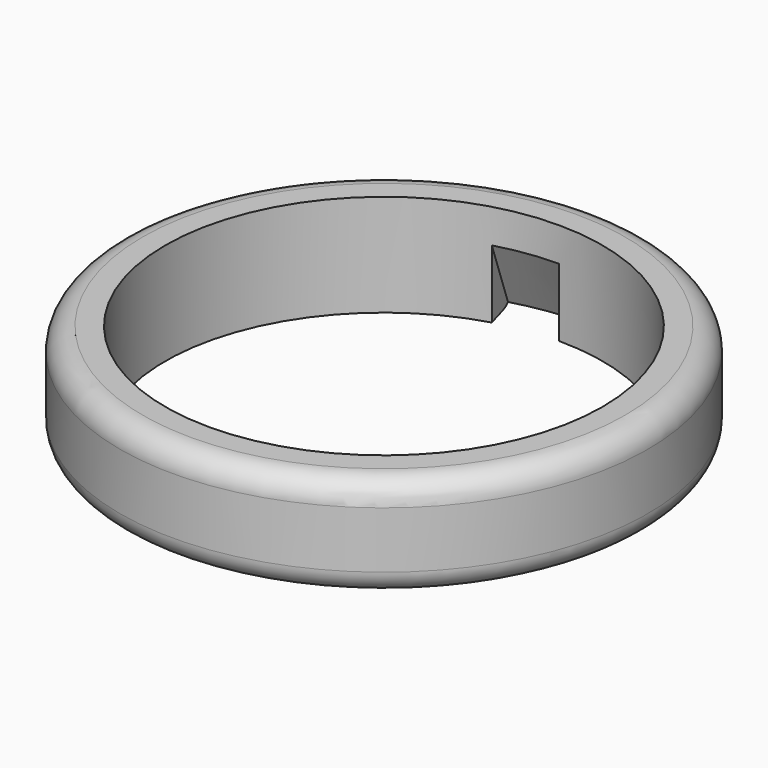
from build123d import *

# Parameters (mm, degrees)
GROOVE_ANGLE    = 16
GROOVE001_ANGLE = 16
GROOVE002_ANGLE = 16


with BuildPart() as part:
    # Sketch027 → Revolution008 (revolve)
    with BuildSketch(Plane.YZ):
        with BuildLine():
            Line((19.3, 0), (21.3, 0))
            ThreePointArc((21.3, 0), (22.714214, 0.585786), (23.3, 2))
            Line((23.3, 2), (23.3, 7))
            ThreePointArc((23.3, 7), (22.714214, 8.414214), (21.3, 9))
            Line((21.3, 9), (19.3, 9))
            Line((19.3, 9), (19.3, 0))
        make_face()
    revolve(axis=Axis((0, 0, 0), (0, 0, 1)))

    # Sketch028 → Groove (revolve, cut)
    with BuildSketch(Plane.YZ):
        Polygon((19.3, 0), (22.3, 0), (19.3, 6), align=None)
    revolve(axis=Axis((0, 0, 0), (0, 0, 1)), revolution_arc=GROOVE_ANGLE, mode=Mode.SUBTRACT)

    # Sketch029 (on DatumPlane) → Groove001 (revolve, cut)
    with BuildSketch(Plane(origin=(0, 0, 0), x_dir=(-0.866025, -0.5, 0), z_dir=(-0.5, 0.866025, 0))):
        Polygon((19.3, 0), (22.3, 0), (19.3, 6), align=None)
    revolve(axis=Axis((0, 0, 0), (0, 0, 1)), revolution_arc=GROOVE001_ANGLE, mode=Mode.SUBTRACT)

    # Sketch047 (on DatumPlane) → Groove002 (revolve, cut)
    with BuildSketch(Plane(origin=(0, 0, 0), x_dir=(0.866025, -0.5, 0), z_dir=(-0.5, -0.866025, 0))):
        Polygon((19.3, 0), (22.3, 0), (19.3, 6), align=None)
    revolve(axis=Axis((0, 0, 0), (0, 0, 1)), revolution_arc=GROOVE002_ANGLE, mode=Mode.SUBTRACT)


solid = part.part
